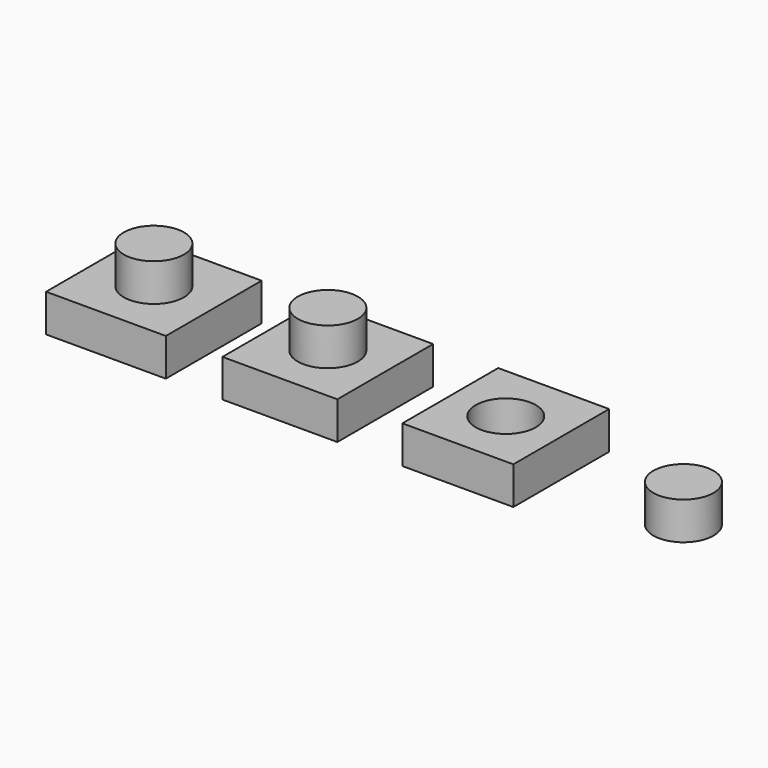
from build123d import *

# Parameters (mm, degrees)
F0_W     = 79.5980393887
F0_H     = 79.5980393887
F1_DEPTH = 25
F0_W_2   = 76.3423591852
F0_W_3   = 73.753029108
F0_W_4   = 83.3638906479
F2_R     = 20
F3_DEPTH = 50
F4_DEPTH = 50
F5_DEPTH = 50
F6_DEPTH = 50


with BuildPart() as f1:
    # F0 (on Top) → F1 (new body)
    with BuildSketch(Plane.XY):
        Rectangle(F0_W, F0_H)
    extrude(amount=F1_DEPTH)


with BuildPart() as f1b:
    # F0 (on Top) → F1, piece 2 (new body)
    with BuildSketch(Plane.XY):
        with Locations((115.6024113297, 0)):
            Rectangle(F0_W_2, F0_H)
    extrude(amount=F1_DEPTH)

    # F2 (on Top) → F4 (join)
    with BuildSketch(Plane.XY):
        with Locations((115.6024113297, 0)):
            Circle(F2_R)
    extrude(amount=F4_DEPTH)


with BuildPart() as f1c:
    # F0 (on Top) → F1, piece 3 (new body)
    with BuildSketch(Plane.XY):
        with Locations((233.8728457689, 0)):
            Rectangle(F0_W_3, F0_H)
    extrude(amount=F1_DEPTH)

    # F2 (on Top) → F5 (cut)
    with BuildSketch(Plane.XY):
        with Locations((233.8728457689, 0)):
            Circle(F2_R)
    extrude(amount=F5_DEPTH, mode=Mode.SUBTRACT)


with BuildPart() as f1d:
    # F0 (on Top) → F1, piece 4 (new body)
    with BuildSketch(Plane.XY):
        with Locations((351.96813941, 0)):
            Rectangle(F0_W_4, F0_H)
    extrude(amount=F1_DEPTH)

    # F2 (on Top) → F6 (intersect)
    with BuildSketch(Plane.XY):
        with Locations((351.96813941, 0)):
            Circle(F2_R)
    extrude(amount=F6_DEPTH, mode=Mode.INTERSECT)


with BuildPart() as f3:
    # F2 (on Top) → F3 (new body)
    with BuildSketch(Plane.XY):
        Circle(F2_R)
    extrude(amount=F3_DEPTH)


solid = Compound([f1.part, f1b.part, f1c.part, f1d.part, f3.part])
